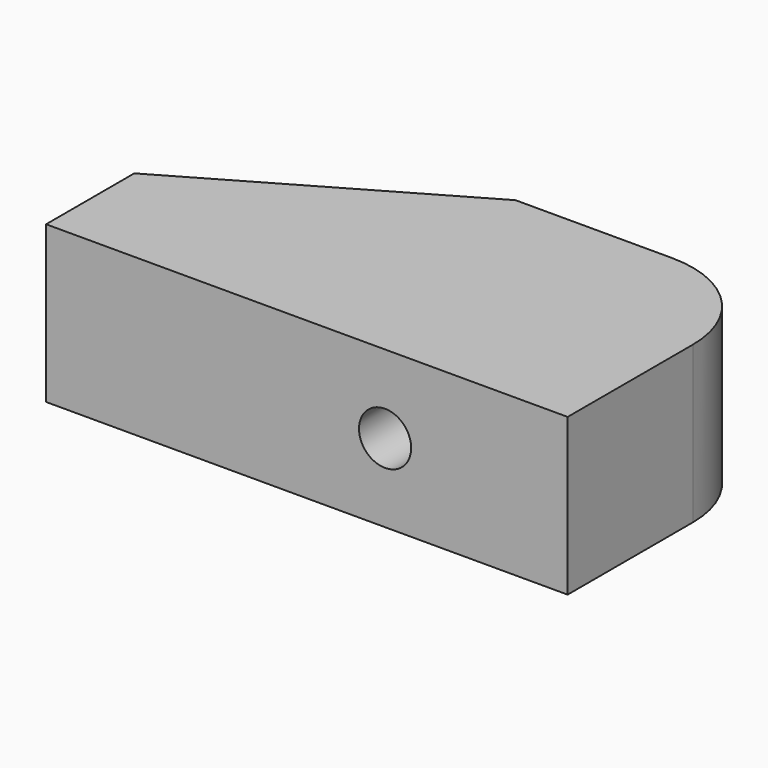
from build123d import *

# Parameters (mm, degrees)
PAD_DEPTH    = 30
SKETCH001_R  = 5
POCKET_DEPTH = 50


with BuildPart() as part:
    # CopySketch → Pad (new body)
    with BuildSketch(Plane.XY):
        with BuildLine():
            Line((0, 21.132487), (0, 0))
            Line((0, 0), (100, 0))
            Line((100, 0), (100, 30))
            ThreePointArc((100, 30), (94.142136, 44.142136), (80, 50))
            Line((80, 50), (50, 50))
            Line((50, 50), (0, 21.132487))
        make_face()
    extrude(amount=PAD_DEPTH)

    # Sketch001 (on Face5 of Pad) → Pocket (cut)
    with BuildSketch(Plane(origin=(0, 50, 0), x_dir=(-1, 0, 0), z_dir=(0, 1, 0))):
        with Locations((-65, 15)):
            Circle(SKETCH001_R)
    extrude(amount=-POCKET_DEPTH, mode=Mode.SUBTRACT)


solid = part.part
